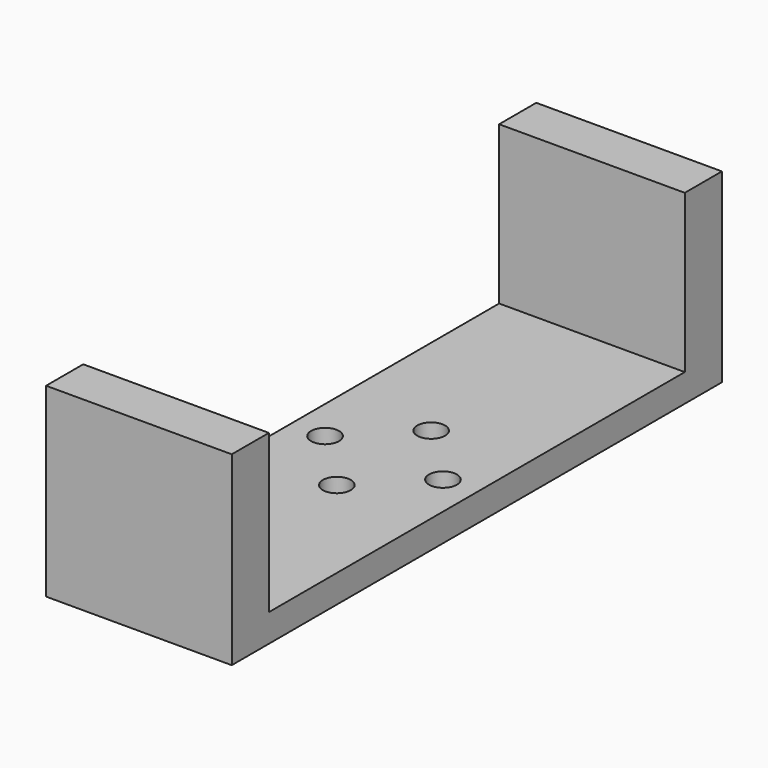
from build123d import *

# Parameters (mm, degrees)
CYLINDER002_R     = 1.5
CYLINDER002_DEPTH = 10
CYLINDER003_R     = 1.5
CYLINDER003_DEPTH = 10
CYLINDER004_R     = 1.5
CYLINDER004_DEPTH = 10
CYLINDER001_R     = 1.5
CYLINDER001_DEPTH = 10
BOX003_W          = 20
BOX003_H          = 65
BOX003_DEPTH      = 3
BOX002_W          = 20
BOX002_H          = 5
BOX002_DEPTH      = 20
BOX001_W          = 20
BOX001_H          = 5
BOX001_DEPTH      = 20


with BuildPart() as h2:
    # Cylinder002 → Cylinder002 (new body)
    with BuildSketch(Plane(origin=(16.35, 32.5, 0), x_dir=(1, 0, 0), z_dir=(0, 0, 1))):
        Circle(CYLINDER002_R)
    extrude(amount=CYLINDER002_DEPTH)


with BuildPart() as h3:
    # Cylinder003 → Cylinder003 (new body)
    with BuildSketch(Plane(origin=(10, 38.85, 0), x_dir=(1, 0, 0), z_dir=(0, 0, 1))):
        Circle(CYLINDER003_R)
    extrude(amount=CYLINDER003_DEPTH)


with BuildPart() as h4:
    # Cylinder004 → Cylinder004 (new body)
    with BuildSketch(Plane(origin=(10, 26.15, 0), x_dir=(1, 0, 0), z_dir=(0, 0, 1))):
        Circle(CYLINDER004_R)
    extrude(amount=CYLINDER004_DEPTH)


with BuildPart() as h1:
    # Cylinder001 → Cylinder001 (new body)
    with BuildSketch(Plane(origin=(3.65, 32.5, 0), x_dir=(1, 0, 0), z_dir=(0, 0, 1))):
        Circle(CYLINDER001_R)
    extrude(amount=CYLINDER001_DEPTH)


with BuildPart() as cut003:
    # Box003 → Box003 (new body)
    with BuildSketch(Plane.XY):
        with Locations((10, 32.5)):
            Rectangle(BOX003_W, BOX003_H)
    extrude(amount=BOX003_DEPTH)

    # Cut: cut H1
    add(h1.part, mode=Mode.SUBTRACT)

    # Cut001: cut H4
    add(h4.part, mode=Mode.SUBTRACT)

    # Cut002: cut H3
    add(h3.part, mode=Mode.SUBTRACT)

    # Cut003: cut H2
    add(h2.part, mode=Mode.SUBTRACT)


with BuildPart() as arm2:
    # Box002 → Box002 (new body)
    with BuildSketch(Plane(origin=(0, 60.5, 0), x_dir=(1, 0, 0), z_dir=(0, 0, 1))):
        with Locations((10, 2.5)):
            Rectangle(BOX002_W, BOX002_H)
    extrude(amount=BOX002_DEPTH)


with BuildPart() as gripper:
    # Box001 → Box001 (new body)
    with BuildSketch(Plane(origin=(0, -0.5, 0), x_dir=(1, 0, 0), z_dir=(0, 0, 1))):
        with Locations((10, 2.5)):
            Rectangle(BOX001_W, BOX001_H)
    extrude(amount=BOX001_DEPTH)

    # Fusion001: union Cut003, Arm2
    add(cut003.part)
    add(arm2.part)


with BuildPart() as gripper_1:
    # Fusion001 placement: moved
    add(gripper.part.moved(Location((11.15, -11.35, 62))))


solid = gripper_1.part
